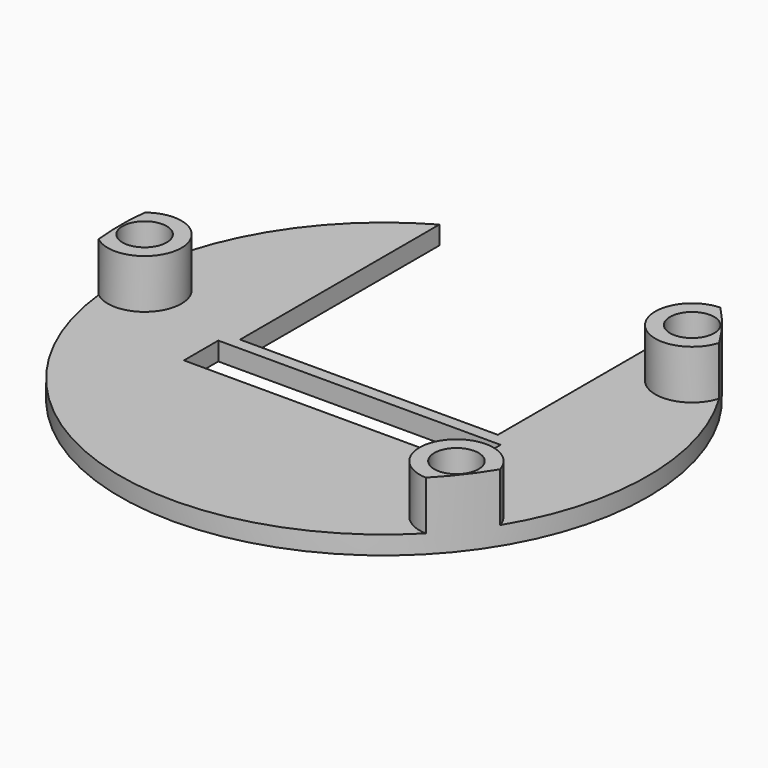
from build123d import *

# Parameters (mm, degrees)
CYLINDER007_R     = 21.5
CYLINDER007_DEPTH = 10
BOX002_W          = 50
BOX002_H          = 50
BOX002_DEPTH      = 10
CYLINDER006_R     = 1.8
CYLINDER006_DEPTH = 10
CYLINDER005_R     = 3
CYLINDER005_DEPTH = 4
CYLINDER004_R     = 1.8
CYLINDER004_DEPTH = 10
CYLINDER003_R     = 3
CYLINDER003_DEPTH = 4
CYLINDER002_R     = 1.8
CYLINDER002_DEPTH = 10
CYLINDER001_R     = 3
CYLINDER001_DEPTH = 4
BOX001_W          = 23
BOX001_H          = 3.5
BOX001_DEPTH      = 2
BOX_W             = 21
BOX_H             = 25
BOX_DEPTH         = 5
CYLINDER_R        = 21.5
CYLINDER_DEPTH    = 1.5


with BuildPart() as cylinder007:
    # Cylinder007 → Cylinder007 (new body)
    with BuildSketch(Plane.XY):
        Circle(CYLINDER007_R)
    extrude(amount=CYLINDER007_DEPTH)


with BuildPart() as cut005:
    # Box002 → Box002 (new body)
    with BuildSketch(Plane(origin=(-25, -25, 0), x_dir=(1, 0, 0), z_dir=(0, 0, 1))):
        with Locations((25, 25)):
            Rectangle(BOX002_W, BOX002_H)
    extrude(amount=BOX002_DEPTH)

    # Cut005: cut Cylinder007
    add(cylinder007.part, mode=Mode.SUBTRACT)


with BuildPart() as cylinder006:
    # Cylinder006 → Cylinder006 (new body)
    with BuildSketch(Plane(origin=(15.5, 12, -2), x_dir=(1, 0, 0), z_dir=(0, 0, 1))):
        Circle(CYLINDER006_R)
    extrude(amount=CYLINDER006_DEPTH)


with BuildPart() as cylinder005:
    # Cylinder005 → Cylinder005 (new body)
    with BuildSketch(Plane(origin=(15.5, 12, 1.5), x_dir=(1, 0, 0), z_dir=(0, 0, 1))):
        Circle(CYLINDER005_R)
    extrude(amount=CYLINDER005_DEPTH)


with BuildPart() as cylinder004:
    # Cylinder004 → Cylinder004 (new body)
    with BuildSketch(Plane(origin=(15.5, -12, -2), x_dir=(1, 0, 0), z_dir=(0, 0, 1))):
        Circle(CYLINDER004_R)
    extrude(amount=CYLINDER004_DEPTH)


with BuildPart() as cylinder003:
    # Cylinder003 → Cylinder003 (new body)
    with BuildSketch(Plane(origin=(15.5, -12, 1.5), x_dir=(1, 0, 0), z_dir=(0, 0, 1))):
        Circle(CYLINDER003_R)
    extrude(amount=CYLINDER003_DEPTH)


with BuildPart() as cylinder002:
    # Cylinder002 → Cylinder002 (new body)
    with BuildSketch(Plane(origin=(-19.5, 0, -2), x_dir=(1, 0, 0), z_dir=(0, 0, 1))):
        Circle(CYLINDER002_R)
    extrude(amount=CYLINDER002_DEPTH)


with BuildPart() as cylinder001:
    # Cylinder001 → Cylinder001 (new body)
    with BuildSketch(Plane(origin=(-19.5, 0, 1.5), x_dir=(1, 0, 0), z_dir=(0, 0, 1))):
        Circle(CYLINDER001_R)
    extrude(amount=CYLINDER001_DEPTH)


with BuildPart() as box001:
    # Box001 → Box001 (new body)
    with BuildSketch(Plane(origin=(-11.5, -6, 0), x_dir=(1, 0, 0), z_dir=(0, 0, 1))):
        with Locations((11.5, 1.75)):
            Rectangle(BOX001_W, BOX001_H)
    extrude(amount=BOX001_DEPTH)


with BuildPart() as box:
    # Box → Box (new body)
    with BuildSketch(Plane(origin=(-10.5, -1.53, -2), x_dir=(1, 0, 0), z_dir=(0, 0, 1))):
        with Locations((10.5, 12.5)):
            Rectangle(BOX_W, BOX_H)
    extrude(amount=BOX_DEPTH)


with BuildPart() as cut006:
    # Cylinder → Cylinder (new body)
    with BuildSketch(Plane.XY):
        Circle(CYLINDER_R)
    extrude(amount=CYLINDER_DEPTH)

    # Cut: cut Box
    add(box.part, mode=Mode.SUBTRACT)

    # Cut001: cut Box001
    add(box001.part, mode=Mode.SUBTRACT)

    # Fusion: union Cylinder001
    add(cylinder001.part)

    # Cut002: cut Cylinder002
    add(cylinder002.part, mode=Mode.SUBTRACT)

    # Fusion001: union Cylinder003
    add(cylinder003.part)

    # Cut003: cut Cylinder004
    add(cylinder004.part, mode=Mode.SUBTRACT)

    # Fusion002: union Cylinder005
    add(cylinder005.part)

    # Cut004: cut Cylinder006
    add(cylinder006.part, mode=Mode.SUBTRACT)

    # Cut006: cut Cut005
    add(cut005.part, mode=Mode.SUBTRACT)


solid = cut006.part
